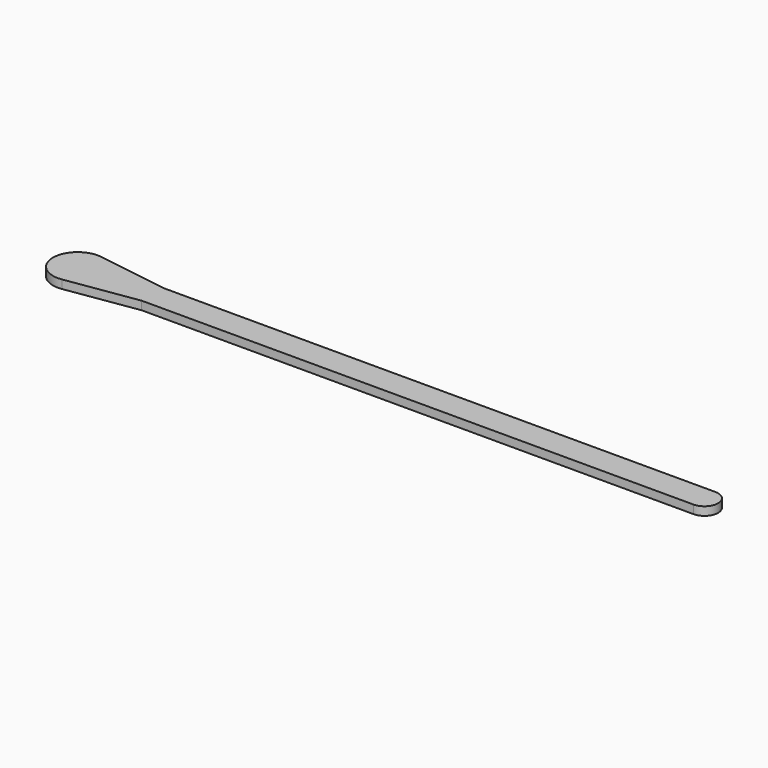
from build123d import *

# Parameters (mm, degrees)
F1_DEPTH = 3.4163


with BuildPart() as f1:
    # F0 (on Top) → F1 (new body)
    with BuildSketch(Plane.XY):
        with BuildLine():
            Line((30.226, 5.5118), (1.503167, 9.88122))
            ThreePointArc((1.503167, 9.88122), (-9.9949, 0), (1.503167, -9.88122))
            Line((1.503167, -9.88122), (30.226, -5.5118))
            Line((30.226, -5.5118), (253.0221, -5.5118))
            ThreePointArc((253.0221, -5.5118), (258.5339, 0), (253.0221, 5.5118))
            Line((253.0221, 5.5118), (30.226, 5.5118))
        make_face()
    extrude(amount=F1_DEPTH)


solid = f1.part
